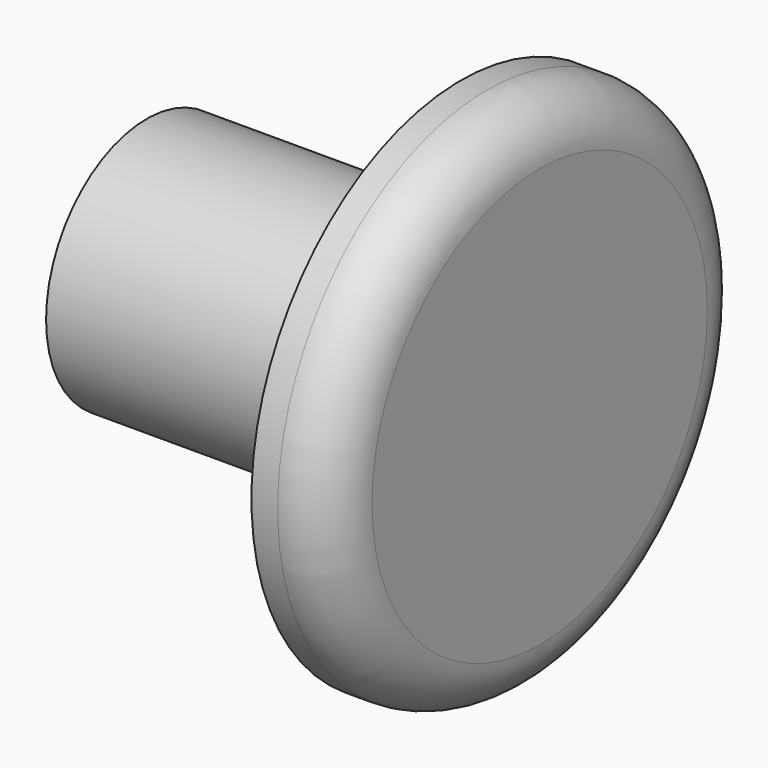
from build123d import *

# Parameters (mm, degrees)
F0_R     = 5
F1_DEPTH = 1.5
F2_R     = 1
F3_R     = 2.4
F4_DEPTH = 6


with BuildPart() as f1:
    # F0 (on Right) → F1 (new body)
    with BuildSketch(Plane.YZ):
        Circle(F0_R)
    extrude(amount=-F1_DEPTH)

    # F2
    f2_edges = [f1.edges().sort_by_distance(p)[0] for p in [
        (0, -5, 0),
    ]]
    fillet(f2_edges, radius=F2_R)

    # F3 (on face) → F4 (join)
    with BuildSketch(Plane(origin=(-1.5, 0, 0), x_dir=(0, -1, 0), z_dir=(-1, 0, 0))):
        Circle(F3_R)
    extrude(amount=F4_DEPTH)


solid = f1.part
